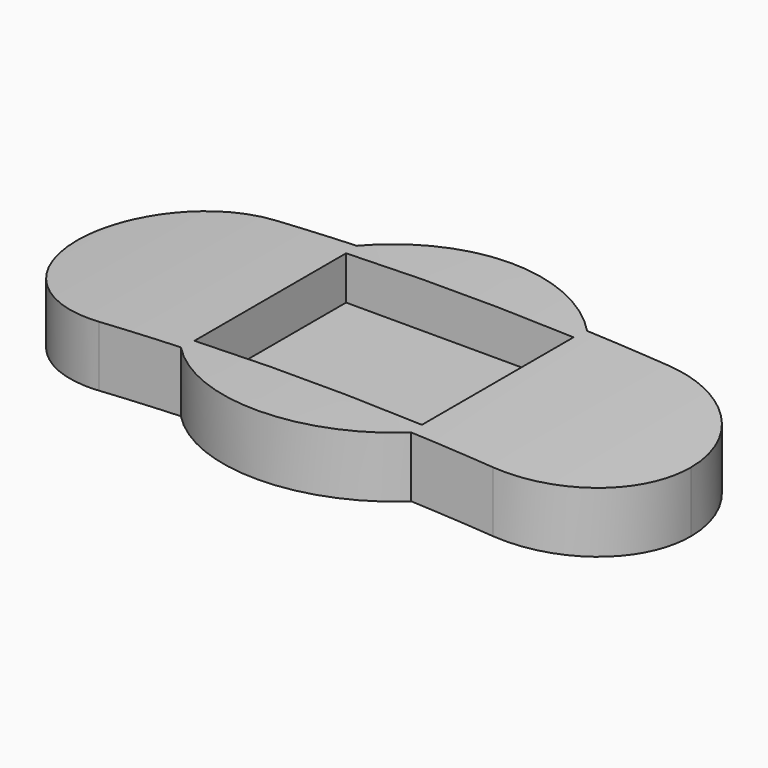
from build123d import *

# Parameters (mm, degrees)
F1_DEPTH = 10
F3_R     = 411.0625
F4_DEPTH = 50
F2_W     = 30
F2_H     = 25
F5_DEPTH = 6
F7_DEPTH = 50


with BuildPart() as f1:
    # F0 (on Top) → F1 (new body)
    with BuildSketch(Plane.XY):
        with BuildLine():
            ThreePointArc((17.4375, 11.7018628325), (16.3738601454, 13.1490191245), (15.190457531, 14.5))
            ThreePointArc((15.190457531, 14.5), (0, 21), (-15.190457531, 14.5))
            ThreePointArc((-15.190457531, 14.5), (-16.3738601454, 13.1490191245), (-17.4375, 11.7018628325))
            ThreePointArc((-17.4375, 11.7018628325), (-13.0692952628, 6.561011736), (-11.5, 0))
            ThreePointArc((-11.5, 0), (-13.0692952628, -6.561011736), (-17.4375, -11.7018628325))
            ThreePointArc((-17.4375, -11.7018628325), (-16.3738601454, -13.1490191245), (-15.190457531, -14.5))
            ThreePointArc((-15.190457531, -14.5), (0, -21), (15.190457531, -14.5))
            ThreePointArc((15.190457531, -14.5), (16.3738601454, -13.1490191245), (17.4375, -11.7018628325))
            ThreePointArc((17.4375, -11.7018628325), (11.5, 0), (17.4375, 11.7018628325))
        make_face()
        with BuildLine():
            Line((26, 14.5), (15.190457531, 14.5))
            ThreePointArc((15.190457531, 14.5), (16.3738601454, 13.1490191245), (17.4375, 11.7018628325))
            ThreePointArc((17.4375, 11.7018628325), (21.4959468848, 13.7827248952), (26, 14.5))
        make_face()
        with BuildLine():
            ThreePointArc((-17.4375, 11.7018628325), (-16.3738601454, 13.1490191245), (-15.190457531, 14.5))
            Line((-15.190457531, 14.5), (-26, 14.5))
            ThreePointArc((-26, 14.5), (-21.4959468848, 13.7827248952), (-17.4375, 11.7018628325))
        make_face()
        with BuildLine():
            ThreePointArc((26, 14.5), (21.4959468848, 13.7827248952), (17.4375, 11.7018628325))
            ThreePointArc((17.4375, 11.7018628325), (20.089642854, 6.1160649114), (21, 0))
            ThreePointArc((21, 0), (20.089642854, -6.1160649114), (17.4375, -11.7018628325))
            ThreePointArc((17.4375, -11.7018628325), (21.4959468848, -13.7827248952), (26, -14.5))
            ThreePointArc((26, -14.5), (36.2530483272, -10.2530483272), (40.5, 0))
            ThreePointArc((40.5, 0), (36.2530483272, 10.2530483272), (26, 14.5))
        make_face()
        with BuildLine():
            ThreePointArc((-17.4375, -11.7018628325), (-21, 0), (-17.4375, 11.7018628325))
            ThreePointArc((-17.4375, 11.7018628325), (-21.4959468848, 13.7827248952), (-26, 14.5))
            ThreePointArc((-26, 14.5), (-40.5, 0), (-26, -14.5))
            ThreePointArc((-26, -14.5), (-21.4959468848, -13.7827248952), (-17.4375, -11.7018628325))
        make_face()
        with BuildLine():
            ThreePointArc((26, -14.5), (21.4959468848, -13.7827248952), (17.4375, -11.7018628325))
            ThreePointArc((17.4375, -11.7018628325), (16.3738601454, -13.1490191245), (15.190457531, -14.5))
            Line((15.190457531, -14.5), (26, -14.5))
        make_face()
        with BuildLine():
            ThreePointArc((-15.190457531, -14.5), (-16.3738601454, -13.1490191245), (-17.4375, -11.7018628325))
            ThreePointArc((-17.4375, -11.7018628325), (-21.4959468848, -13.7827248952), (-26, -14.5))
            Line((-26, -14.5), (-15.190457531, -14.5))
        make_face()
        with BuildLine():
            ThreePointArc((-11.5, 0), (-13.0692952628, 6.561011736), (-17.4375, 11.7018628325))
            ThreePointArc((-17.4375, 11.7018628325), (-21, 0), (-17.4375, -11.7018628325))
            ThreePointArc((-17.4375, -11.7018628325), (-13.0692952628, -6.561011736), (-11.5, 0))
        make_face()
        with BuildLine():
            ThreePointArc((21, 0), (20.089642854, 6.1160649114), (17.4375, 11.7018628325))
            ThreePointArc((17.4375, 11.7018628325), (11.5, 0), (17.4375, -11.7018628325))
            ThreePointArc((17.4375, -11.7018628325), (20.089642854, -6.1160649114), (21, 0))
        make_face()
    extrude(amount=F1_DEPTH)

    # F3 (on Front) → F4 (cut, symmetric)
    with BuildSketch(Plane.XZ):
        with Locations((0, -409.0625)):
            Circle(F3_R)
    extrude(amount=F4_DEPTH, both=True, mode=Mode.SUBTRACT)

    # F2 (on face) → F5 (cut)
    with BuildSketch(Plane.XY.offset(10)):
        Rectangle(F2_W, F2_H)
    extrude(amount=-F5_DEPTH, mode=Mode.SUBTRACT)

    # F6 (on Front) → F7 (cut, symmetric)
    with BuildSketch(Plane.XZ):
        with BuildLine():
            ThreePointArc((-40.5, 8), (0, 10), (40.5, 8))
            Line((40.5, 8), (40.5, 38))
            Line((40.5, 38), (-40.5, 38))
            Line((-40.5, 38), (-40.5, 8))
        make_face()
    extrude(amount=F7_DEPTH, both=True, mode=Mode.SUBTRACT)


solid = f1.part
